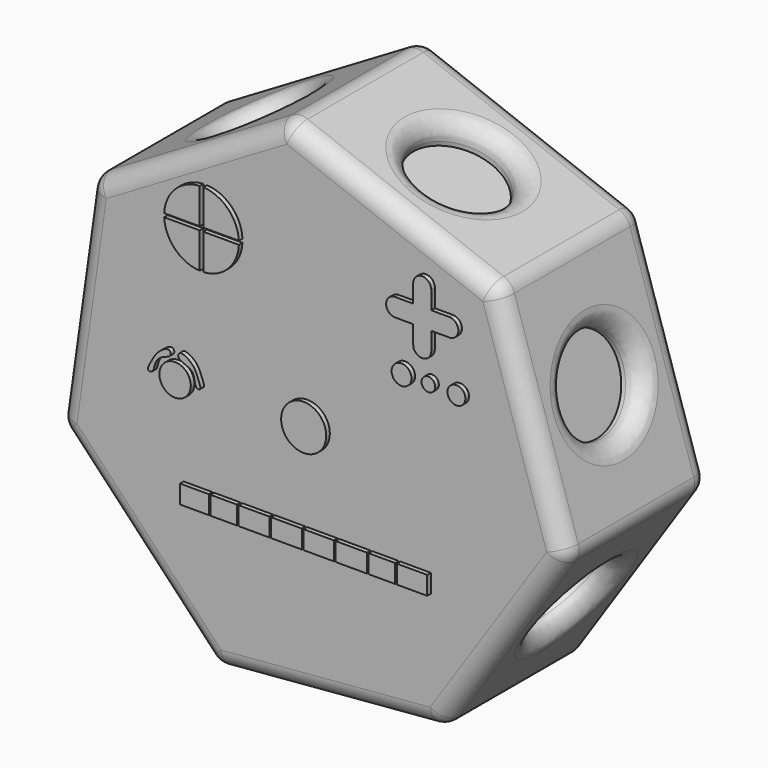
from build123d import *

# Parameters (mm, degrees)
F1_DEPTH  = 25.4
F9_R      = 6.35
F10_DEPTH = 3.175
F4_R      = 6.35
F11_DEPTH = 3.175
F3_R      = 6.35
F12_DEPTH = 3.175
F5_R      = 6.35
F13_DEPTH = 3.175
F6_R      = 6.35
F14_DEPTH = 3.175
F7_R      = 6.35
F15_DEPTH = 3.175
F8_R      = 6.3465960137
F16_DEPTH = 3.175
F17_R     = 3.175
F17_R_2   = 1.2601350487
F17_R_3   = 0.9671180304
F17_R_4   = 1.3992339336
F17_R_5   = 2.2128093057
F17_W     = 4.3201670765
F17_H     = 2.5977306068
F17_W_2   = 3.710278847
F17_W_3   = 4.0405143809
F17_W_4   = 4.3121164913
F17_W_5   = 4.251981924
F17_W_6   = 4.3919520236
F17_W_7   = 3.7147296376
F17_W_8   = 4.2784132106
F18_DEPTH = 0.635
F19_W     = 12.7
F19_H     = 6.2550660223
F19_W_2   = 14.6858096123
F19_H_2   = 3.81
F19_R     = 1.905
F19_R_2   = 0.635
F19_W_3   = 14.1930862095
F19_H_3   = 2.54
F20_DEPTH = 7.112
F21_R     = 2.54


with BuildPart() as f1:
    # F0 (on Front) → F1 (new body)
    with BuildSketch(Plane.XZ):
        Polygon((36.4896601674, -5.1353806577), (26.7659332603, 25.3269076347), (-3.1130873174, 36.7175179034), (-30.6478896497, 20.45908829), (-35.1042059727, -11.2054520952), (-13.1263392031, -34.4320585031), (18.7359287151, -31.7306225722), align=None)
    extrude(amount=F1_DEPTH)

    # F9 (on face) → F10 (cut)
    with BuildSketch(Plane(origin=(-32.8760478112, 0, 4.6268180974), x_dir=(0, -1, 0), z_dir=(-0.9902415211, 0, 0.1393618666))):
        with Locations((12.7, 0)):
            Circle(F9_R)
    extrude(amount=-F10_DEPTH, mode=Mode.SUBTRACT)

    # F4 (on face) → F11 (cut)
    with BuildSketch(Plane(origin=(-16.8804884835, 0, 28.5883030967), x_dir=(0.8610926991, 0, 0.508447995), z_dir=(-0.508447995, 0, 0.8610926991))):
        with Locations((0, -12.7)):
            Circle(F4_R)
    extrude(amount=-F11_DEPTH, mode=Mode.SUBTRACT)

    # F3 (on face) → F12 (cut)
    with BuildSketch(Plane(origin=(11.8264229715, 0, 31.0222127691), x_dir=(0.934403166, 0, -0.3562172418), z_dir=(0.3562172418, 0, 0.934403166))):
        with Locations((0, -12.7)):
            Circle(F3_R)
    extrude(amount=-F12_DEPTH, mode=Mode.SUBTRACT)

    # F5 (on face) → F13 (cut)
    with BuildSketch(Plane(origin=(31.6277967139, 0, 10.0957634885), x_dir=(0, 1, 0), z_dir=(0.95264363, 0, 0.3040889906))):
        with Locations((-12.7, 0)):
            Circle(F5_R)
    extrude(amount=-F13_DEPTH, mode=Mode.SUBTRACT)

    # F6 (on face) → F14 (cut)
    with BuildSketch(Plane(origin=(27.6127944412, 0, -18.4330016149), x_dir=(0, 1, 0), z_dir=(0.8317099344, 0, -0.555210397))):
        with Locations((-12.7, 0)):
            Circle(F6_R)
    extrude(amount=-F14_DEPTH, mode=Mode.SUBTRACT)

    # F7 (on face) → F15 (cut)
    with BuildSketch(Plane(origin=(2.804794756, 0, -33.0813405376), x_dir=(0.9964250315, 0, 0.0844816944), z_dir=(0.0844816944, 0, -0.9964250315))):
        with Locations((0, 12.3508605221)):
            Circle(F7_R)
    extrude(amount=-F15_DEPTH, mode=Mode.SUBTRACT)

    # F8 (on face) → F16 (cut)
    with BuildSketch(Plane(origin=(-24.1152725879, 0, -22.8187552991), x_dir=(0, -1, 0), z_dir=(-0.7263629846, 0, -0.6873112938))):
        with Locations((12.7, 0)):
            Circle(F8_R)
    extrude(amount=-F16_DEPTH, mode=Mode.SUBTRACT)

    # F17 (on face) → F18 (join)
    with BuildSketch(Plane.XZ.offset(25.4)):
        Circle(F17_R)
        with BuildLine():
            ThreePointArc((17.9611552355, 22.8909544954), (16.6911551417, 24.1609545892), (15.4211550479, 22.8909544954))
            Line((15.4211550479, 22.8909544954), (15.4211550479, 20.3509544954))
            Line((15.4211550479, 20.3509544954), (12.8811550479, 20.3509544954))
            ThreePointArc((12.8811550479, 20.3509544954), (11.6111550479, 19.0809544954), (12.8811550479, 17.8109544954))
            Line((12.8811550479, 17.8109544954), (15.4211550479, 17.8109544954))
            Line((15.4211550479, 17.8109544954), (15.4211550479, 15.2709544954))
            ThreePointArc((15.4211550479, 15.2709544954), (16.6911551417, 14.0009544016), (17.9611552355, 15.2709544954))
            Line((17.9611552355, 15.2709544954), (17.9611552355, 17.8109544954))
            Line((17.9611552355, 17.8109544954), (20.5011552355, 17.8109544954))
            ThreePointArc((20.5011552355, 17.8109544954), (21.7711552355, 19.0809544954), (20.5011552355, 20.3509544954))
            Line((20.5011552355, 20.3509544954), (17.9611552355, 20.3509544954))
            Line((17.9611552355, 20.3509544954), (17.9611552355, 22.8909544954))
        make_face()
        with Locations((21.5049192775, 10.9723238274)):
            Circle(F17_R_2)
        with Locations((17.5547555555, 11.0437972471)):
            Circle(F17_R_3)
        with Locations((13.776026899, 11.0156983137)):
            Circle(F17_R_4)
        with Locations((-18.1027967483, 0)):
            Circle(F17_R_5)
        with BuildLine():
            add(Edge.make_bspline(
                [(-21.3293936104, 0), (-21.0741774101, 0.2017094875), (-21.0241205179, 1.2312956635), (-20.1181810522, 2.3340877667), (-18.5112174877, 2.5934303015), (-18.894975492, 3.7913884276), (-20.500475374, 2.8465277897), (-21.3050538524, 1.5483984431), (-22.2319367508, -0.1478734261), (-21.5013217762, -0.1358829972), (-21.3293936104, 0)],
                knots=[0, 0, 0, 0, 0.1249116225, 0.2618652696, 0.3947924703, 0.4856192325, 0.6223424908, 0.7779825414, 0.9158524179, 1, 1, 1, 1], degree=3))
        make_face()
        with BuildLine():
            add(Edge.make_bspline(
                [(-15.0760784745, 0), (-15.3124517967, 0.2030244842), (-15.3356284298, 1.2404118254), (-15.8942552518, 2.2378232822), (-17.8651890833, 2.6073373274), (-17.5157093919, 3.9779868338), (-15.4638093171, 2.8039576251), (-14.9618467865, 1.3861206648), (-14.2932317045, -0.1270005833), (-14.9254184505, -0.1294040858), (-15.0760784745, 0)],
                knots=[0, 0, 0, 0, 0.1241806367, 0.2459318816, 0.3945573514, 0.4881498388, 0.6416960797, 0.7931752156, 0.9208495378, 1, 1, 1, 1], degree=3))
        make_face()
        with BuildLine():
            Line((-14.1267681519, 20.1666731575), (-9.1246849205, 20.1666731575))
            ThreePointArc((-9.1246849205, 20.1666731575), (-10.6598310575, 23.6335512321), (-14.1267681519, 25.1685640757))
            Line((-14.1267681519, 25.1685640757), (-14.1267681519, 20.1666731575))
        make_face()
        with BuildLine():
            Line((-14.6343640018, 20.1666731575), (-14.6343640018, 25.1685640757))
            ThreePointArc((-14.6343640018, 25.1685640757), (-18.1013010962, 23.6335512321), (-19.6364472332, 20.1666731575))
            Line((-19.6364472332, 20.1666731575), (-14.6343640018, 20.1666731575))
        make_face()
        with BuildLine():
            ThreePointArc((-19.6364472332, 19.6586731575), (-18.1013010962, 16.191795083), (-14.6343640018, 14.6567822394))
            Line((-14.6343640018, 14.6567822394), (-14.6343640018, 19.6586731575))
            Line((-14.6343640018, 19.6586731575), (-19.6364472332, 19.6586731575))
        make_face()
        with BuildLine():
            ThreePointArc((-14.1267681519, 14.6567822394), (-10.6598310575, 16.191795083), (-9.1246849205, 19.6586731575))
            Line((-9.1246849205, 19.6586731575), (-14.1267681519, 19.6586731575))
            Line((-14.1267681519, 19.6586731575), (-14.1267681519, 14.6567822394))
        make_face()
        with Locations((-6.9853975795, -13.9203490689)):
            Rectangle(F17_W, F17_H)
        with Locations((-11.2546205412, -13.9203490689)):
            Rectangle(F17_W_2, F17_H)
        with Locations((-15.3840171552, -13.9203490689)):
            Rectangle(F17_W_3, F17_H)
        with Locations((-2.4152557956, -13.9203490689)):
            Rectangle(F17_W_4, F17_H)
        with Locations((2.1207934121, -13.9203490689)):
            Rectangle(F17_W_5, F17_H)
        with Locations((6.6967603859, -13.9203490689)):
            Rectangle(F17_W_6, F17_H)
        with Locations((11.0041012165, -13.9203490689)):
            Rectangle(F17_W_7, F17_H)
        with Locations((15.2546726405, -13.9203490689)):
            Rectangle(F17_W_8, F17_H)
    extrude(amount=F18_DEPTH)

    # F19 (on face) → F20 (cut)
    with BuildSketch(Plane(origin=(0, 0, 0), x_dir=(-1, 0, 0), z_dir=(0, 1, 0))):
        with Locations((-17.2878200352, -12.1401045471)):
            Rectangle(F19_W, F19_H)
        with Locations((15.3430271894, -13.6345967886)):
            Rectangle(F19_W_2, F19_H_2)
        with Locations((15.3430271894, -18.4392126513)):
            Rectangle(F19_W_2, F19_H_2)
        with Locations((12.6309851705, 13.1344459951)):
            Circle(F19_R)
        with Locations((12.6309851705, 13.1344459951)):
            Circle(F19_R_2, mode=Mode.SUBTRACT)
        with Locations((20.4119477421, 13.1344459951)):
            Circle(F19_R)
        with Locations((20.4119477421, 13.1344459951)):
            Circle(F19_R_2, mode=Mode.SUBTRACT)
        with Locations((20.4119477421, 19.4844459951)):
            Circle(F19_R)
        with Locations((20.4119477421, 19.4844459951)):
            Circle(F19_R_2, mode=Mode.SUBTRACT)
        with Locations((12.6309851705, 19.4844459951)):
            Circle(F19_R)
        with Locations((12.6309851705, 19.4844459951)):
            Circle(F19_R_2, mode=Mode.SUBTRACT)
        with Locations((-16.6708694356, 18.2144459951)):
            Rectangle(F19_W_3, F19_H_3)
        with Locations((-16.6708694356, 14.4044459951)):
            Rectangle(F19_W_3, F19_H_3)
    extrude(amount=-F20_DEPTH, mode=Mode.SUBTRACT)

    # F21
    f21_edges = [f1.edges().sort_by_distance(p)[0] for p in [
        (-30.64789, -12.7, 20.459088),
        (-32.876048, 0, 4.626818),
        (-32.876048, -25.4, 4.626818),
        (-35.104206, -12.7, -11.205452),
        (-32.876048, -6.35, 4.626818),
        (-3.113087, -12.7, 36.717518),
        (-16.880488, 0, 28.588303),
        (-16.880488, -25.4, 28.588303),
        (-22.348427, -12.7, 25.359658),
        (26.765933, -12.7, 25.326908),
        (11.826423, 0, 31.022213),
        (11.826423, -25.4, 31.022213),
        (5.892963, -12.7, 33.284192),
        (36.48966, -12.7, -5.135381),
        (31.627797, 0, 10.095763),
        (31.627797, -25.4, 10.095763),
        (31.627797, -19.05, 10.095763),
        (18.735929, -12.7, -31.730623),
        (27.612794, 0, -18.433002),
        (27.612794, -25.4, -18.433002),
        (27.612794, -19.05, -18.433002),
        (-13.126339, -12.7, -34.432059),
        (2.804795, 0, -33.081341),
        (2.804795, -25.4, -33.081341),
        (-3.522504, -12.350861, -33.617799),
        (-24.115273, 0, -22.818755),
        (-24.115273, -25.4, -22.818755),
        (-24.115273, -6.353404, -22.818755),
    ]]
    fillet(f21_edges, radius=F21_R)


solid = f1.part
